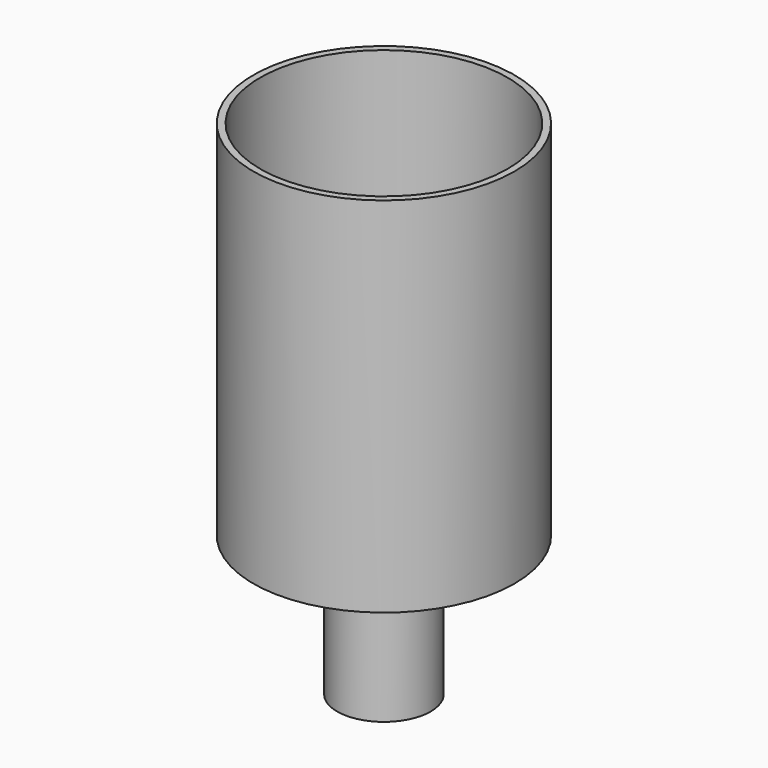
from build123d import *

# Parameters (mm, degrees)
F0_R     = 9.5
F0_R_2   = 9
F1_DEPTH = 25.4
F0_R_3   = 3.4
F0_R_4   = 2.9
F2_DEPTH = 1
F3_DEPTH = 11.176


with BuildPart() as f1:
    # F0 (on Top) → F1 (new body)
    with BuildSketch(Plane.XY):
        Circle(F0_R)
        Circle(F0_R_2, mode=Mode.SUBTRACT)
    extrude(amount=F1_DEPTH)

    # F0 (on Top) → F2 (join)
    with BuildSketch(Plane.XY):
        Circle(F0_R)
        Circle(F0_R_2, mode=Mode.SUBTRACT)
        Circle(F0_R_2)
        Circle(F0_R_3, mode=Mode.SUBTRACT)
        Circle(F0_R_3)
        Circle(F0_R_4, mode=Mode.SUBTRACT)
        Circle(F0_R_4)
    extrude(amount=-F2_DEPTH)

    # F0 (on Top) → F3 (join)
    with BuildSketch(Plane.XY):
        Circle(F0_R_3)
        Circle(F0_R_4, mode=Mode.SUBTRACT)
    extrude(amount=-F3_DEPTH)


solid = f1.part
